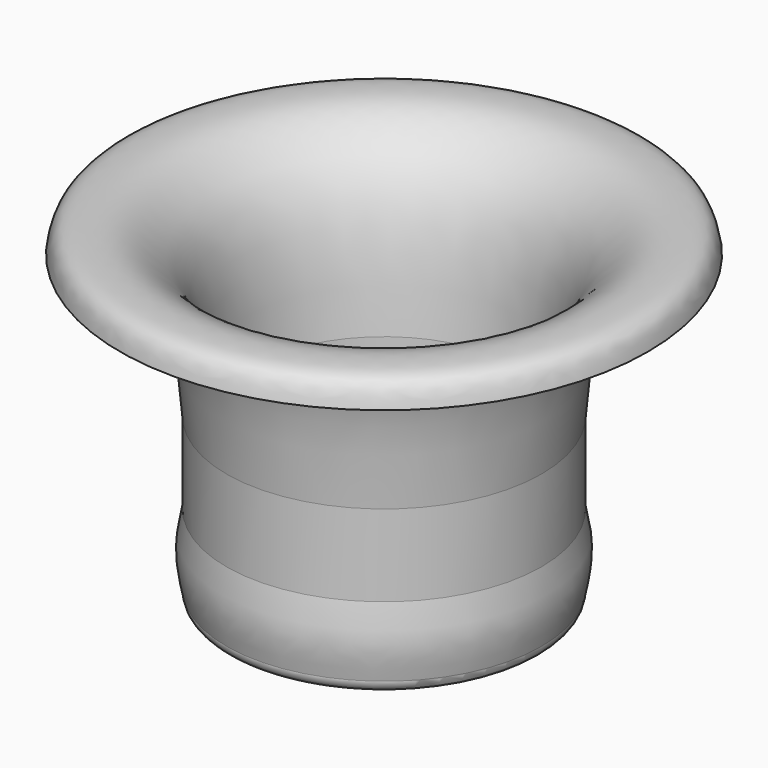
from build123d import *


with BuildPart() as f1:
    # F0 (on Front) → F1 (revolve)
    with BuildSketch(Plane.XZ):
        with BuildLine():
            Line((20.5, 25), (20.5, 0))
            Line((20.5, 0), (22.3, 0))
            ThreePointArc((22.3, 0), (23.5727922061, 0.5272077939), (24.1, 1.8))
            add(Edge.make_bspline(
                [(24.1, 12.5), (24.475, 10.7166666667), (25.225, 7.15), (24.475, 3.5833333333), (24.1, 1.8)],
                knots=[0, 0, 0, 0, 0.5, 1, 1, 1, 1], degree=3))
            Line((24.1, 12.5), (24.1, 25))
            add(Edge.make_bspline(
                [(24.1, 25), (24.5936304496, 31.419377683), (25.4067665419, 41.9937409294), (30.9912812997, 48.1958295594), (35.2017970551, 48.8997072199), (38.4628262974, 48.6474611543), (38.3465800839, 46.0075374194), (39.7043803551, 46.5179870532), (40.3832957815, 46.7732176185)],
                knots=[0, 0, 0, 0, 0.317143968, 0.5224175433, 0.6768946905, 0.8017063128, 0.9008509233, 1, 1, 1, 1], degree=3))
            add(Edge.make_bspline(
                [(20.5, 25), (20.9107595442, 31.5234243652), (21.6265602856, 42.8913208965), (30.0165419854, 50.6481570463), (35.0921068006, 51.0039531736), (39.6555627651, 50.6259541616), (40.1450436297, 48.034563127), (40.3832957815, 46.7732176185)],
                knots=[0, 0, 0, 0, 0.3159164124, 0.5505245233, 0.7154307468, 0.8614874619, 1, 1, 1, 1], degree=3))
        make_face()
    revolve(axis=Axis((0, 0, 30.669644475), (0, 0, 1)))


solid = f1.part
